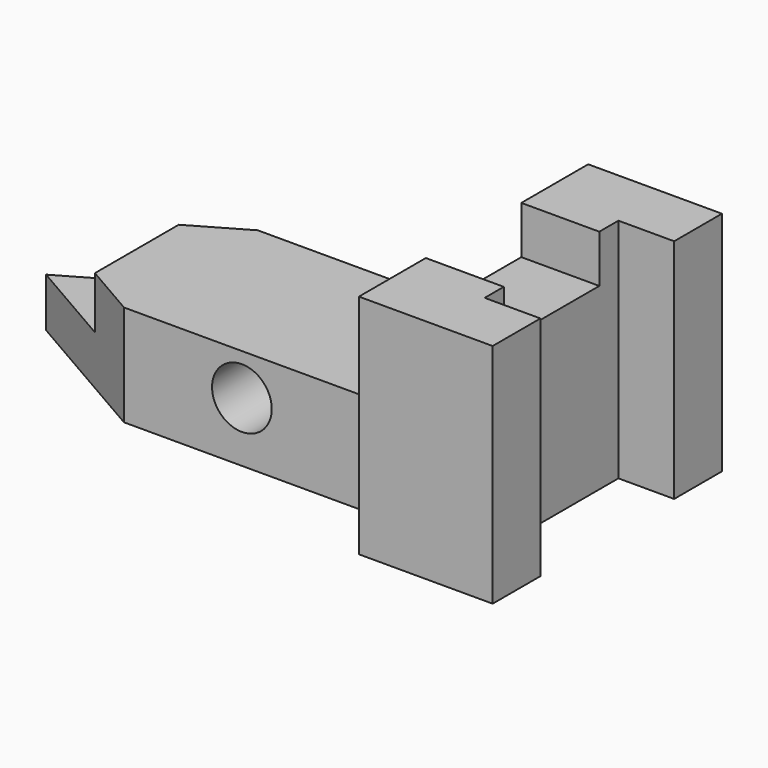
from build123d import *

# Parameters (mm, degrees)
F1_DEPTH  = 48.26
F2_R      = 6.35
F3_DEPTH  = 20.066
F4_W      = 90.932
F4_H      = 26.7915036529
F5_DEPTH  = 63.5
F6_W      = 12.1428427496
F6_H      = 35.56
F7_DEPTH  = 70.866
F8_W      = 35.7905875854
F8_H      = 25.4
F9_DEPTH  = 10.16
F11_START = 10.414
F10_W     = 19.304
F10_H     = 47.7508436888
F11_DEPTH = 11.176


with BuildPart() as f1:
    # F0 (on Top) → F1 (new body)
    with BuildSketch(Plane.XY):
        Polygon((59.8277186039, -32.457854175), (59.8277186039, 28.502145825), (31.3797186039, 28.502145825), (31.3797186039, 15.802145825), (-28.7564180376, 15.802145825), (-59.5522813961, -1.977854175), (-28.7564180376, -19.757854175), (31.3797186039, -19.757854175), (31.3797186039, -32.457854175), align=None)
    extrude(amount=F1_DEPTH)

    # F2 (on Front) → F3 (cut, symmetric)
    with BuildSketch(Plane.XZ):
        with Locations((-3.6722813961, 12.7)):
            Circle(F2_R)
    extrude(amount=F3_DEPTH, both=True, mode=Mode.SUBTRACT)

    # F4 (on Front) → F5 (cut, symmetric)
    with BuildSketch(Plane.XZ):
        with Locations((-14.0862813961, 34.9018583074)):
            Rectangle(F4_W, F4_H)
    extrude(amount=F5_DEPTH, both=True, mode=Mode.SUBTRACT)

    # F6 (on Top) → F7 (cut)
    with BuildSketch(Plane.XY):
        with Locations((54.0386456996, -1.977854175)):
            Rectangle(F6_W, F6_H)
    extrude(amount=F7_DEPTH, mode=Mode.SUBTRACT)

    # F8 (on face) → F9 (cut)
    with BuildSketch(Plane.XY.offset(48.26)):
        with Locations((38.911470212, -1.977854175)):
            Rectangle(F8_W, F8_H)
    extrude(amount=-F9_DEPTH, mode=Mode.SUBTRACT)

    # F10 (on Top) → F11 (cut)
    with BuildSketch(Plane.XY.offset(F11_START)):
        with Locations((-49.9002813961, -3.6451024935)):
            Rectangle(F10_W, F10_H)
    extrude(amount=F11_DEPTH, mode=Mode.SUBTRACT)


solid = f1.part
